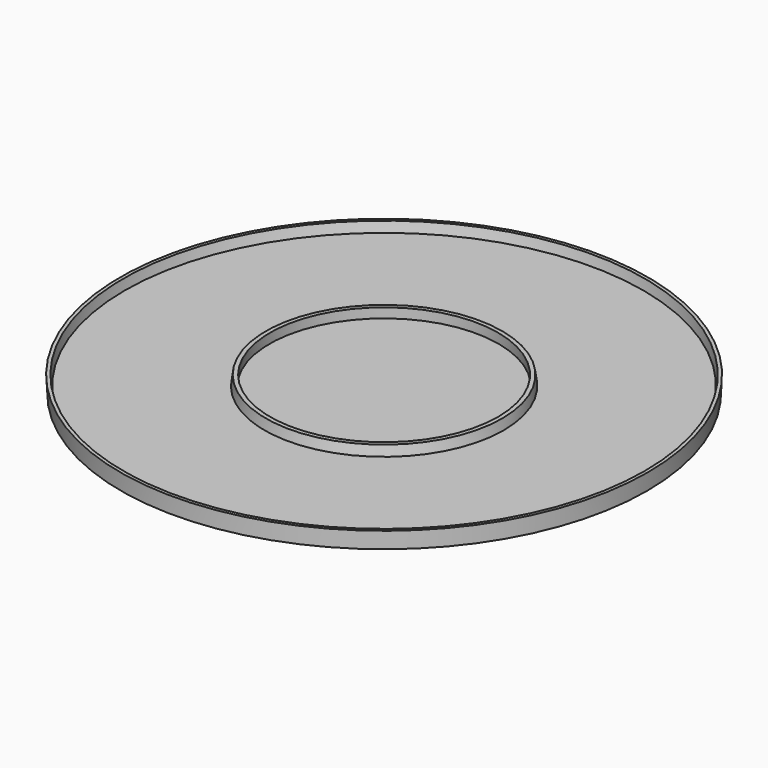
from build123d import *

# Parameters (mm, degrees)
F0_R     = 100.33
F0_R_2   = 43.815
F1_DEPTH = 6.35
F1_TAPER = -3
F2_DEPTH = 2.54
F3_R     = 43.4822106016
F4_DEPTH = 3.81
F3_R_2   = 99.3927893984
F3_R_3   = 45.085
F5_DEPTH = 3.81
F5_TAPER = 8


with BuildPart() as f1:
    # F0 (on Top) → F1 (new body)
    with BuildSketch(Plane.XY):
        Circle(F0_R)
        Circle(F0_R_2, mode=Mode.SUBTRACT)
    extrude(amount=F1_DEPTH, taper=F1_TAPER)

    # F0 (on Top) → F2 (join)
    with BuildSketch(Plane.XY):
        Circle(F0_R_2)
    extrude(amount=F2_DEPTH)

    # F3 (on face) → F4 (cut, through all)
    with BuildSketch(Plane.XY.offset(6.35)):
        Circle(F3_R)
    extrude(amount=-F4_DEPTH, mode=Mode.SUBTRACT)

    # F3 (on face) → F5 (cut, through all)
    with BuildSketch(Plane.XY.offset(6.35)):
        Circle(F3_R_2)
        Circle(F3_R_3, mode=Mode.SUBTRACT)
    extrude(amount=-F5_DEPTH, taper=F5_TAPER, mode=Mode.SUBTRACT)


solid = f1.part
